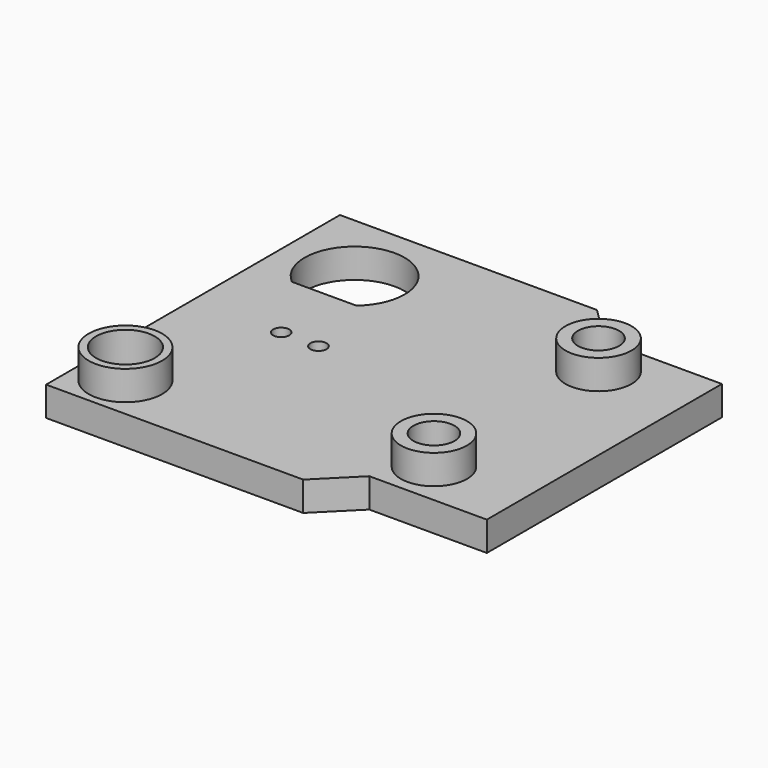
from build123d import *

# Parameters (mm, degrees)
SKETCH_R      = 1.4
SKETCH_R_2    = 2
SKETCH_R_3    = 0.55
PAD_DEPTH     = 2
SKETCH001_R   = 2.5
SKETCH001_R_2 = 2
SKETCH001_R_3 = 2.25
SKETCH001_R_4 = 1.4
PAD001_DEPTH  = 2


with BuildPart() as part:
    # Sketch → Pad (new body)
    with BuildSketch(Plane.XY):
        Polygon((0, 10), (0, -10), (-8, -10), (-10.5, -12.5), (-28, -12.5), (-28, 12.5), (-10.5, 12.5), (-8, 10), align=None)
        with Locations((-6, 7)):
            Circle(SKETCH_R, mode=Mode.SUBTRACT)
        with Locations((-6, -7)):
            Circle(SKETCH_R, mode=Mode.SUBTRACT)
        with Locations((-25, -9.5)):
            Circle(SKETCH_R_2, mode=Mode.SUBTRACT)
        with Locations((-22, 0)):
            Circle(SKETCH_R_3, mode=Mode.SUBTRACT)
        with Locations((-19.46, 0)):
            Circle(SKETCH_R_3, mode=Mode.SUBTRACT)
        with BuildLine():
            ThreePointArc((-20.80911, 4.9), (-23, 10.9), (-25.19089, 4.9))
            Line((-25.19089, 4.9), (-20.80911, 4.9))
        make_face(mode=Mode.SUBTRACT)
    extrude(amount=PAD_DEPTH)

    # Sketch001 (on DatumPlane) → Pad001 (join)
    with BuildSketch(Plane.XY.offset(2)):
        with Locations((-25, -9.5)):
            Circle(SKETCH001_R)
        with Locations((-25, -9.5)):
            Circle(SKETCH001_R_2, mode=Mode.SUBTRACT)
        with Locations((-6, -7)):
            Circle(SKETCH001_R_3)
        with Locations((-6, -7)):
            Circle(SKETCH001_R_4, mode=Mode.SUBTRACT)
        with Locations((-6, 7)):
            Circle(SKETCH001_R_3)
        with Locations((-6, 7)):
            Circle(SKETCH001_R_4, mode=Mode.SUBTRACT)
    extrude(amount=PAD001_DEPTH)


solid = part.part
